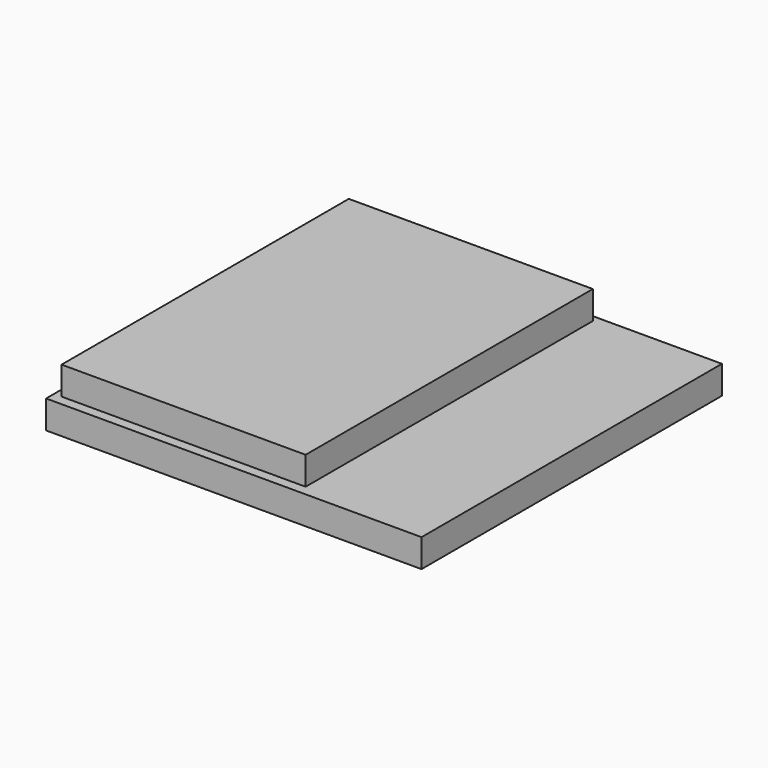
from build123d import *

# Parameters (mm, degrees)
F0_W     = 20
F0_H     = 20
F1_DEPTH = 1.5
F3_W     = 13
F3_H     = 19.123189
F4_DEPTH = 1.5


with BuildPart() as f1:
    # F0 (on Top) → F1 (new body)
    with BuildSketch(Plane.XY):
        Rectangle(F0_W, F0_H)
    extrude(amount=F1_DEPTH)

    # F3 (on offset) → F4 (join)
    with BuildSketch(Plane.XY.offset(1.5)):
        with Locations((-3.101639, 0.095553)):
            Rectangle(F3_W, F3_H)
    extrude(amount=F4_DEPTH)


solid = f1.part
